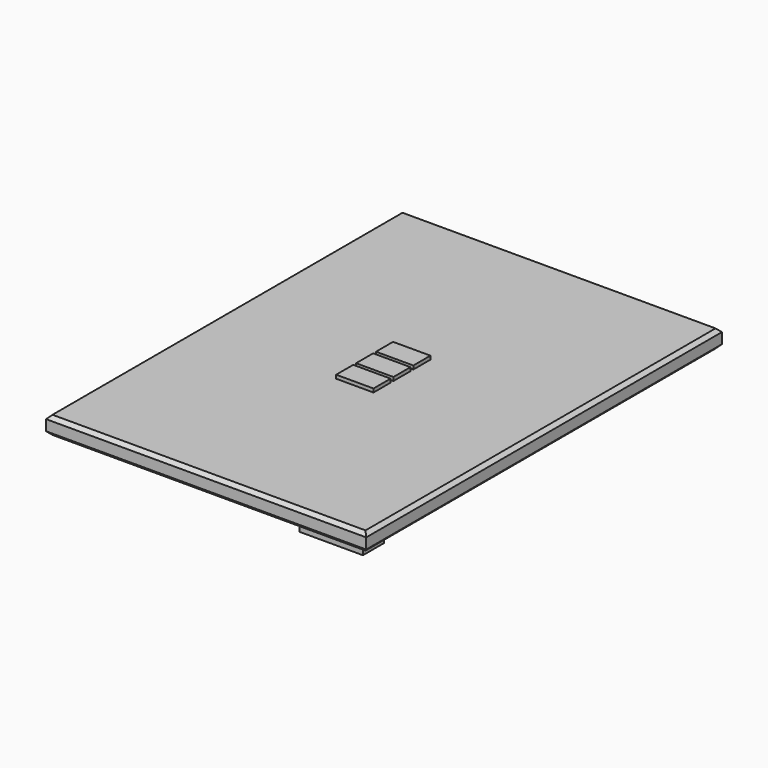
from build123d import *

# Parameters (mm, degrees)
F0_W     = 457.2
F0_H     = 635
F1_DEPTH = 25.4
F2_SIZE  = 5.08
F3_W     = 90.666391
F3_H     = 37.333221
F4_DEPTH = 25.4
F5_W     = 53.34
F5_H     = 30.48
F6_DEPTH = 5.08


with BuildPart() as f1:
    # F0 (on Top) → F1 (new body)
    with BuildSketch(Plane.XY):
        Rectangle(F0_W, F0_H)
    extrude(amount=F1_DEPTH)

    # F2
    f2_edges = [f1.edges().sort_by_distance(p)[0] for p in [
        (0, -317.5, 25.4),
        (-228.6, 0, 25.4),
        (0, 317.5, 25.4),
        (228.6, 0, 25.4),
        (228.6, 0, 0),
        (0, -317.5, 0),
        (-228.6, 0, 0),
        (0, 317.5, 0),
    ]]
    chamfer(f2_edges, length=F2_SIZE)

    # F3 (on face) → F4 (join)
    with BuildSketch(Plane(origin=(0, 0, 0), x_dir=(1, 0, 0), z_dir=(0, 0, -1))):
        with Locations((152.535525, 266.251489)):
            Rectangle(F3_W, F3_H)
    extrude(amount=F4_DEPTH)


with BuildPart() as f6:
    # F5 (on Top) → F6 (new body)
    with BuildSketch(Plane.XY):
        with Locations((-725.038501, 129.674196)):
            Rectangle(F5_W, F5_H)
    extrude(amount=F6_DEPTH)


with BuildPart() as f7_1:
    # F7: copy of F6
    add(f6.part.moved(Location((0, 203.2, 0))))


with BuildPart() as f8_1:
    # F8: copy of F6
    add(f6.part.moved(Location((0, -203.2, 0))))


with BuildPart() as f8_1_1:
    # F9: moved
    add(f8_1.part.moved(Location((723.9, -129.54, 27.94))))


with BuildPart() as f7_1_1:
    # F9: moved
    add(f7_1.part.moved(Location((723.9, -129.54, 27.94))))


with BuildPart() as f6_1:
    # F9: moved
    add(f6.part.moved(Location((723.9, -129.54, 27.94))))


with BuildPart() as f7_1_2:
    # F10: moved
    add(f7_1_1.part.moved(Location((0, -167.64, 0))))


with BuildPart() as f8_1_2:
    # F11: moved
    add(f8_1_1.part.moved(Location((0, 167.64, 0))))


solid = Compound([f1.part, f6_1.part, f7_1_2.part, f8_1_2.part])
